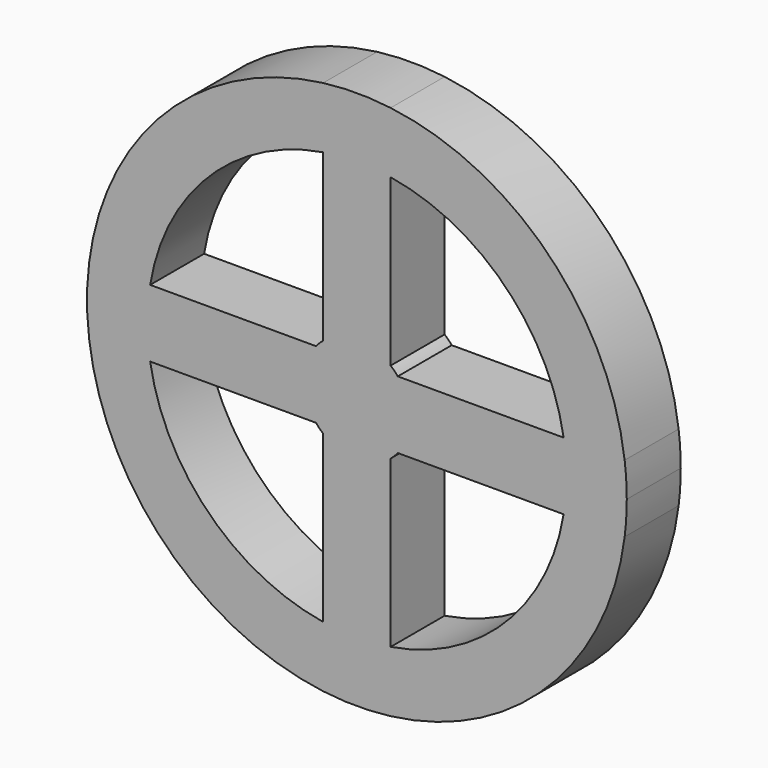
from build123d import *

# Parameters (mm, degrees)
F1_DEPTH = 5


with BuildPart() as f1:
    # F0 (on Front) → F1 (new body, symmetric)
    with BuildSketch(Plane.XZ):
        with BuildLine():
            ThreePointArc((39.68627, -5), (39.92149, -2.504917), (40, 0))
            ThreePointArc((40, 0), (39.92149, 2.504917), (39.68627, 5))
            ThreePointArc((39.68627, 5), (28.284271, 28.284271), (5, 39.68627))
            ThreePointArc((5, 39.68627), (0, 40), (-5, 39.68627))
            ThreePointArc((-5, 39.68627), (-28.284271, 28.284271), (-39.68627, 5))
            ThreePointArc((-39.68627, 5), (-40, 0), (-39.68627, -5))
            ThreePointArc((-39.68627, -5), (-28.284271, -28.284271), (-5, -39.68627))
            ThreePointArc((-5, -39.68627), (0, -40), (5, -39.68627))
            ThreePointArc((5, -39.68627), (28.284271, -28.284271), (39.68627, -5))
        make_face()
        with BuildLine():
            ThreePointArc((-5, -30.641942), (-21.953686, -21.953686), (-30.641942, -5))
            Line((-30.641942, -5), (-6.05909, -5))
            ThreePointArc((-6.05909, -5), (-5.554843, -5.554844), (-5, -6.05909))
            Line((-5, -6.05909), (-5, -30.641942))
        make_face(mode=Mode.SUBTRACT)
        with BuildLine():
            ThreePointArc((5, -6.05909), (5.554843, -5.554843), (6.05909, -5))
            Line((6.05909, -5), (30.641942, -5))
            ThreePointArc((30.641942, -5), (21.953686, -21.953686), (5, -30.641942))
            Line((5, -30.641942), (5, -6.05909))
        make_face(mode=Mode.SUBTRACT)
        with BuildLine():
            ThreePointArc((-30.641942, 5), (-21.953686, 21.953686), (-5, 30.641942))
            Line((-5, 30.641942), (-5, 6.05909))
            ThreePointArc((-5, 6.05909), (-5.554843, 5.554843), (-6.05909, 5))
            Line((-6.05909, 5), (-30.641942, 5))
        make_face(mode=Mode.SUBTRACT)
        with BuildLine():
            Line((30.641942, 5), (6.05909, 5))
            ThreePointArc((6.05909, 5), (5.554843, 5.554843), (5, 6.05909))
            Line((5, 6.05909), (5, 30.641942))
            ThreePointArc((5, 30.641942), (21.953686, 21.953686), (30.641942, 5))
        make_face(mode=Mode.SUBTRACT)
    extrude(amount=F1_DEPTH, both=True)


solid = f1.part
